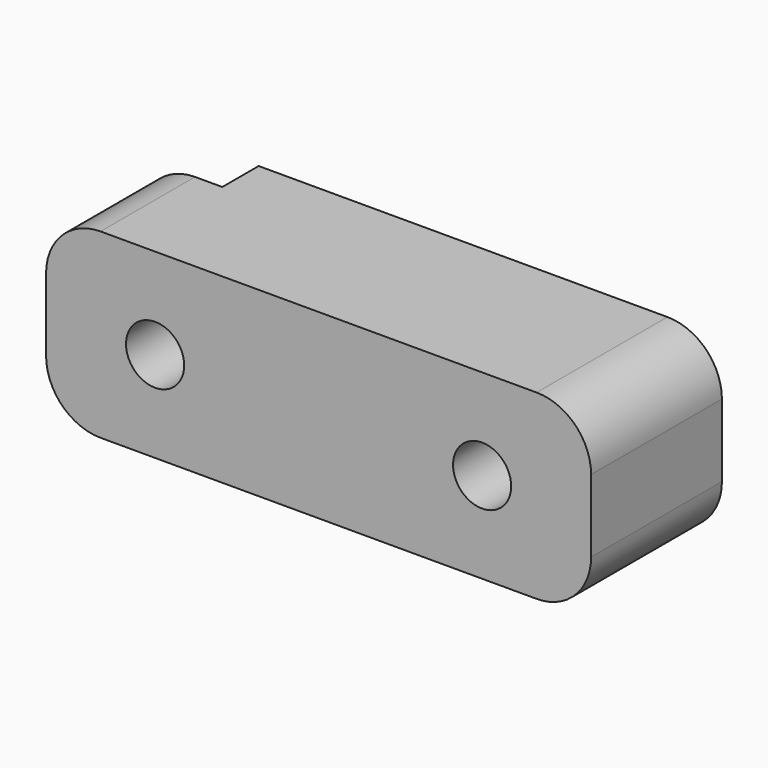
from build123d import *

# Parameters (mm, degrees)
BOX323_W          = 10
BOX323_H          = 2.5
BOX323_DEPTH      = 10
CYLINDER152_R     = 1.6
CYLINDER152_DEPTH = 9
CYLINDER153_R     = 1.6
CYLINDER153_DEPTH = 9
CYLINDER154_R     = 1.6
CYLINDER154_DEPTH = 9
CYLINDER155_R     = 1.6
CYLINDER155_DEPTH = 9
BOX071_W          = 30
BOX071_H          = 9
BOX071_DEPTH      = 10
FILLET034_R       = 3


with BuildPart() as cube394:
    # Box323 → Box323 (new body)
    with BuildSketch(Plane(origin=(429.5, -12.5, 5), x_dir=(1, 0, 0), z_dir=(0, 0, 1))):
        with Locations((5, 1.25)):
            Rectangle(BOX323_W, BOX323_H)
    extrude(amount=BOX323_DEPTH)


with BuildPart() as cylinder152:
    # Cylinder152 → Cylinder152 (new body)
    with BuildSketch(Plane(origin=(555, -5, 10), x_dir=(1, 0, 0), z_dir=(0, -1, 0))):
        Circle(CYLINDER152_R)
    extrude(amount=CYLINDER152_DEPTH)


with BuildPart() as fusion125:
    # Cylinder153 → Cylinder153 (new body)
    with BuildSketch(Plane(origin=(450, -5, 10), x_dir=(1, 0, 0), z_dir=(0, -1, 0))):
        Circle(CYLINDER153_R)
    extrude(amount=CYLINDER153_DEPTH)

    # Fusion125: union Cylinder152
    add(cylinder152.part)


with BuildPart() as fusion125_1:
    # Fusion125 placement: moved
    add(fusion125.part.moved(Location((-9, 5, 0))))


with BuildPart() as cylinder154:
    # Cylinder154 → Cylinder154 (new body)
    with BuildSketch(Plane(origin=(555, -5, 10), x_dir=(1, 0, 0), z_dir=(0, -1, 0))):
        Circle(CYLINDER154_R)
    extrude(amount=CYLINDER154_DEPTH)


with BuildPart() as fusion135:
    # Cylinder155 → Cylinder155 (new body)
    with BuildSketch(Plane(origin=(450, -5, 10), x_dir=(1, 0, 0), z_dir=(0, -1, 0))):
        Circle(CYLINDER155_R)
    extrude(amount=CYLINDER155_DEPTH)

    # Fusion132: union Cylinder154
    add(cylinder154.part)


with BuildPart() as fusion135_1:
    # Fusion132 placement: moved
    add(fusion135.part.moved(Location((9, 5, 0))))

    # Fusion135: union Fusion125
    add(fusion125_1.part)


with BuildPart() as fender_spacer_front_left:
    # Box071 → Box071 (new body)
    with BuildSketch(Plane(origin=(435, -9, 5), x_dir=(1, 0, 0), z_dir=(0, 0, 1))):
        with Locations((15, 4.5)):
            Rectangle(BOX071_W, BOX071_H)
    extrude(amount=BOX071_DEPTH)

    # Fillet034
    fillet034_edges = [fender_spacer_front_left.edges().sort_by_distance(p)[0] for p in [
        (435, -4.5, 15),
        (435, -4.5, 5),
        (465, -4.5, 15),
        (465, -4.5, 5),
    ]]
    fillet(fillet034_edges, radius=FILLET034_R)

    # Cut083: cut Fusion135
    add(fusion135_1.part, mode=Mode.SUBTRACT)


with BuildPart() as fender_spacer_front_left_1:
    # Cut083 placement: moved
    add(fender_spacer_front_left.part.moved(Location((0, -10, 0))))

    # Cut322: cut Cube394
    add(cube394.part, mode=Mode.SUBTRACT)


solid = fender_spacer_front_left_1.part
